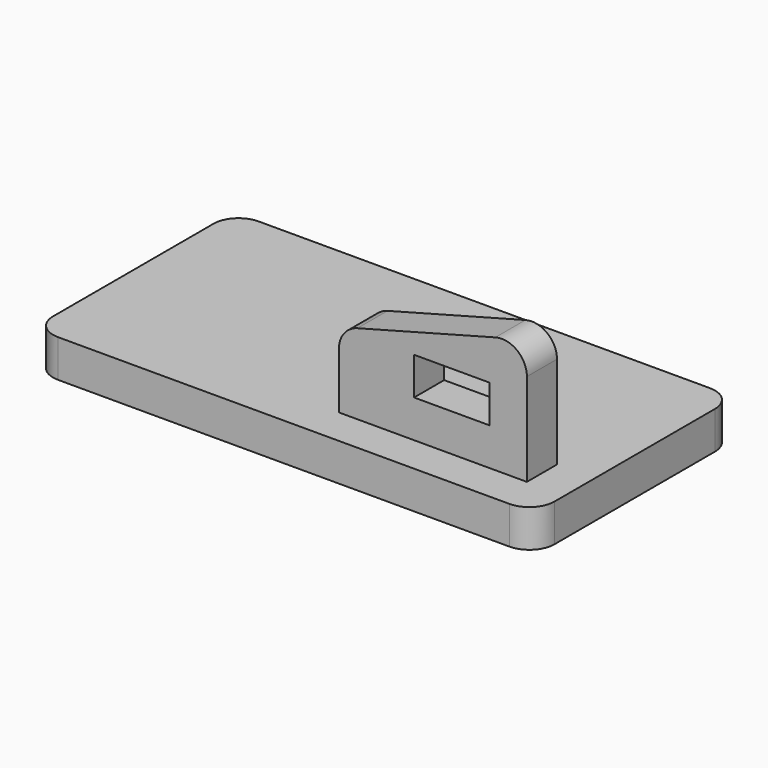
from build123d import *

# Parameters (mm, degrees)
F0_W     = 200
F0_H     = 100
F1_DEPTH = 15
F3_W     = 30
F3_H     = 15
F4_DEPTH = 15
F5_R     = 10


with BuildPart() as f1:
    # F0 (on Top) → F1 (new body)
    with BuildSketch(Plane.XY):
        with Locations((100, 50)):
            Rectangle(F0_W, F0_H)
    extrude(amount=F1_DEPTH)

    # F3 (on offset) → F4 (join)
    with BuildSketch(Plane.XZ.offset(-15)):
        Polygon((110, 15), (185, 15), (185, 65), (110, 45), align=None)
        with Locations((155, 37.5)):
            Rectangle(F3_W, F3_H, mode=Mode.SUBTRACT)
    extrude(amount=-F4_DEPTH)

    # F5
    f5_edges = [f1.edges().sort_by_distance(p)[0] for p in [
        (0, 0, 7.5),
        (0, 100, 7.5),
        (200, 0, 7.5),
        (110, 22.5, 45),
        (185, 22.5, 65),
        (200, 100, 7.5),
    ]]
    fillet(f5_edges, radius=F5_R)


solid = f1.part
